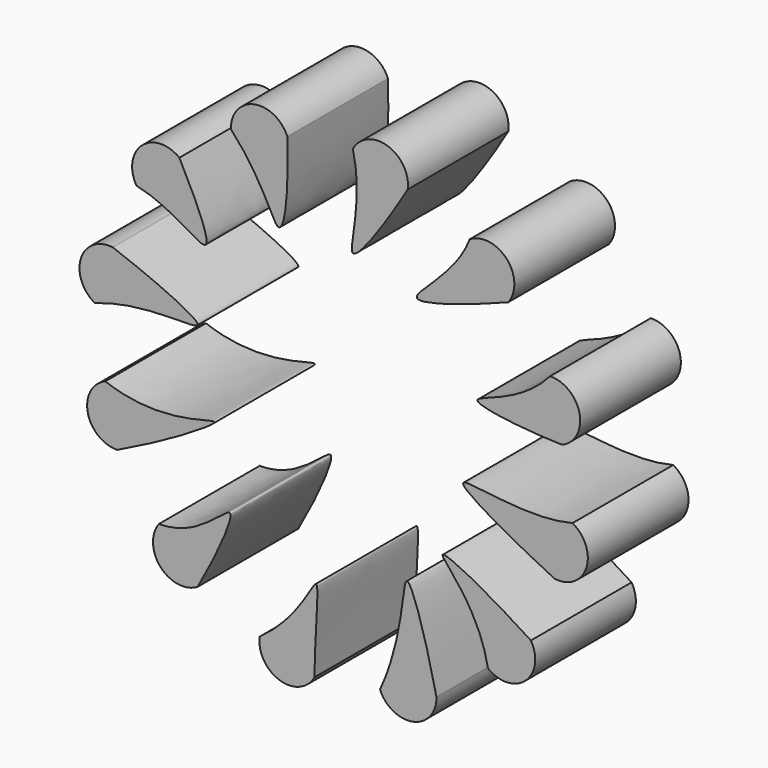
from build123d import *

# Parameters (mm, degrees)
F1_DEPTH = 25.4


with BuildPart() as f1:
    # F0 (on Front) → F1 (new body)
    with BuildSketch(Plane.XZ):
        with BuildLine():
            add(Edge.make_bspline(
                [(43.6942128915, 20.7516566908), (37.6534759998, 13.7808937579), (20.3611942202, 11.7319338318), (37.7676810562, 9.5814254022), (46.0986662923, 9.3556287457)],
                knots=[0, 0, 0, 0, 0.500003285, 1, 1, 1, 1], degree=3))
            ThreePointArc((46.0986662923, 9.3556287457), (49.6409354328, 16.0546861708), (43.6942128915, 20.7516566908))
        make_face()
    extrude(amount=F1_DEPTH)


with BuildPart() as f1b:
    # F0 (on Front) → F1, piece 2 (new body)
    with BuildSketch(Plane.XZ):
        with BuildLine():
            add(Edge.make_bspline(
                [(-31.1515453083, 35.2448017169), (-27.8314582232, 29.0277199818), (-21.6725859794, 15.4750796973), (-32.4948206544, 25.8866418153), (-39.8185683106, 27.464470017)],
                knots=[0, 0, 0, 0, 0.4965235301, 1, 1, 1, 1], degree=3))
            ThreePointArc((-31.1515453083, 35.2448017169), (-38.7242337901, 34.962968067), (-39.8185683106, 27.464470017))
        make_face()
    extrude(amount=F1_DEPTH)


with BuildPart() as f1c:
    # F0 (on Front) → F1, piece 3 (new body)
    with BuildSketch(Plane.XZ):
        with BuildLine():
            add(Edge.make_bspline(
                [(-14.9471209841, -44.6004304626), (-6.6684368066, -38.6232472956), (-1.873241772, -24.0112844756), (-3.8005476817, -39.6661125124), (-3.8756445809, -48.2161267078)],
                knots=[0, 0, 0, 0, 0.5049504536, 1, 1, 1, 1], degree=3))
            ThreePointArc((-14.9471209841, -44.6004304626), (-10.9167016427, -51.0176542378), (-3.8756445809, -48.2161267078))
        make_face()
    extrude(amount=F1_DEPTH)


with BuildPart() as f1d:
    # F0 (on Front) → F1, piece 4 (new body)
    with BuildSketch(Plane.XZ):
        with BuildLine():
            add(Edge.make_bspline(
                [(-20.7516566908, 43.6942128915), (-13.9317295828, 36.4240669794), (-10.7572511786, 22.7997290618), (-9.0228736551, 35.6810251146), (-9.3556287457, 46.0986662923)],
                knots=[0, 0, 0, 0, 0.5033949897, 1, 1, 1, 1], degree=3))
            ThreePointArc((-9.3556287457, 46.0986662923), (-16.0546861708, 49.6409354328), (-20.7516566908, 43.6942128915))
        make_face()
    extrude(amount=F1_DEPTH)


with BuildPart() as f1e:
    # F0 (on Front) → F1, piece 5 (new body)
    with BuildSketch(Plane.XZ):
        with BuildLine():
            add(Edge.make_bspline(
                [(48.2161267078, -3.8756445809), (38.6963412166, -6.2943245284), (15.4702924202, 0.5914018033), (35.1336182152, -10.3397743174), (44.6004304626, -14.9471209841)],
                knots=[0, 0, 0, 0, 0.5031261421, 1, 1, 1, 1], degree=3))
            ThreePointArc((44.6004304626, -14.9471209841), (51.0176542378, -10.9167016427), (48.2161267078, -3.8756445809))
        make_face()
    extrude(amount=F1_DEPTH)


with BuildPart() as f1f:
    # F0 (on Front) → F1, piece 6 (new body)
    with BuildSketch(Plane.XZ):
        with BuildLine():
            add(Edge.make_bspline(
                [(-27.464470017, -39.8185683106), (-23.5305771025, -32.8631682889), (-16.4309267944, -17.0141995807), (-27.5258086622, -31.3231647015), (-35.2448017169, -31.1515453083)],
                knots=[0, 0, 0, 0, 0.5068739164, 1, 1, 1, 1], degree=3))
            ThreePointArc((-35.2448017169, -31.1515453083), (-34.962968067, -38.7242337901), (-27.464470017, -39.8185683106))
        make_face()
    extrude(amount=F1_DEPTH)


with BuildPart() as f1g:
    # F0 (on Front) → F1, piece 7 (new body)
    with BuildSketch(Plane.XZ):
        with BuildLine():
            add(Edge.make_bspline(
                [(-43.6942128915, -20.7516566908), (-33.6634995044, -16.0303087631), (-14.0188940769, -4.0504286217), (-34.825887531, -13.594403863), (-46.0986662923, -9.3556287457)],
                knots=[0, 0, 0, 0, 0.5035882222, 1, 1, 1, 1], degree=3))
            ThreePointArc((-46.0986662923, -9.3556287457), (-49.6409354328, -16.0546861708), (-43.6942128915, -20.7516566908))
        make_face()
    extrude(amount=F1_DEPTH)


with BuildPart() as f1h:
    # F0 (on Front) → F1, piece 8 (new body)
    with BuildSketch(Plane.XZ):
        with BuildLine():
            add(Edge.make_bspline(
                [(3.8756445809, 48.2161267078), (6.1066932976, 39.3311716616), (-0.4662675797, 21.2833383245), (10.333455576, 36.8377200332), (14.9471209841, 44.6004304626)],
                knots=[0, 0, 0, 0, 0.4997018067, 1, 1, 1, 1], degree=3))
            ThreePointArc((14.9471209841, 44.6004304626), (10.9167016427, 51.0176542378), (3.8756445809, 48.2161267078))
        make_face()
    extrude(amount=F1_DEPTH)


with BuildPart() as f1i:
    # F0 (on Front) → F1, piece 9 (new body)
    with BuildSketch(Plane.XZ):
        with BuildLine():
            add(Edge.make_bspline(
                [(39.8185683106, -27.464470017), (31.605162731, -22.0543804825), (13.5809889579, -12.5997234869), (29.3105207384, -24.8052384704), (31.1515453083, -35.2448017169)],
                knots=[0, 0, 0, 0, 0.5041631317, 1, 1, 1, 1], degree=3))
            ThreePointArc((31.1515453083, -35.2448017169), (38.7242337901, -34.962968067), (39.8185683106, -27.464470017))
        make_face()
    extrude(amount=F1_DEPTH)


with BuildPart() as f1j:
    # F0 (on Front) → F1, piece 10 (new body)
    with BuildSketch(Plane.XZ):
        with BuildLine():
            add(Edge.make_bspline(
                [(-48.2161267078, 3.8756445809), (-37.9544906318, 7.5236824341), (-18.046563155, 3.730758545), (-35.8886318836, 11.7667074998), (-44.6004304626, 14.9471209841)],
                knots=[0, 0, 0, 0, 0.5122064849, 1, 1, 1, 1], degree=3))
            ThreePointArc((-44.6004304626, 14.9471209841), (-51.0176542378, 10.9167016427), (-48.2161267078, 3.8756445809))
        make_face()
    extrude(amount=F1_DEPTH)


with BuildPart() as f1k:
    # F0 (on Front) → F1, piece 11 (new body)
    with BuildSketch(Plane.XZ):
        with BuildLine():
            add(Edge.make_bspline(
                [(20.7516566908, -43.6942128915), (18.7196422501, -34.3555205462), (12.9640582676, -15.4704329198), (14.4496476278, -34.9732041359), (9.3556287457, -46.0986662923)],
                knots=[0, 0, 0, 0, 0.4867403843, 1, 1, 1, 1], degree=3))
            ThreePointArc((9.3556287457, -46.0986662923), (16.0546861708, -49.6409354328), (20.7516566908, -43.6942128915))
        make_face()
    extrude(amount=F1_DEPTH)


with BuildPart() as f1l:
    # F0 (on Front) → F1, piece 12 (new body)
    with BuildSketch(Plane.XZ):
        with BuildLine():
            add(Edge.make_bspline(
                [(27.464470017, 39.8185683106), (24.8783379793, 32.8132435679), (7.898762946, 21.6509950536), (26.5681798839, 27.7773952826), (35.2448017169, 31.1515453083)],
                knots=[0, 0, 0, 0, 0.4882713535, 1, 1, 1, 1], degree=3))
            ThreePointArc((35.2448017169, 31.1515453083), (34.962968067, 38.7242337901), (27.464470017, 39.8185683106))
        make_face()
    extrude(amount=F1_DEPTH)


solid = Compound([f1.part, f1b.part, f1c.part, f1d.part, f1e.part, f1f.part, f1g.part, f1h.part, f1i.part, f1j.part, f1k.part, f1l.part])
